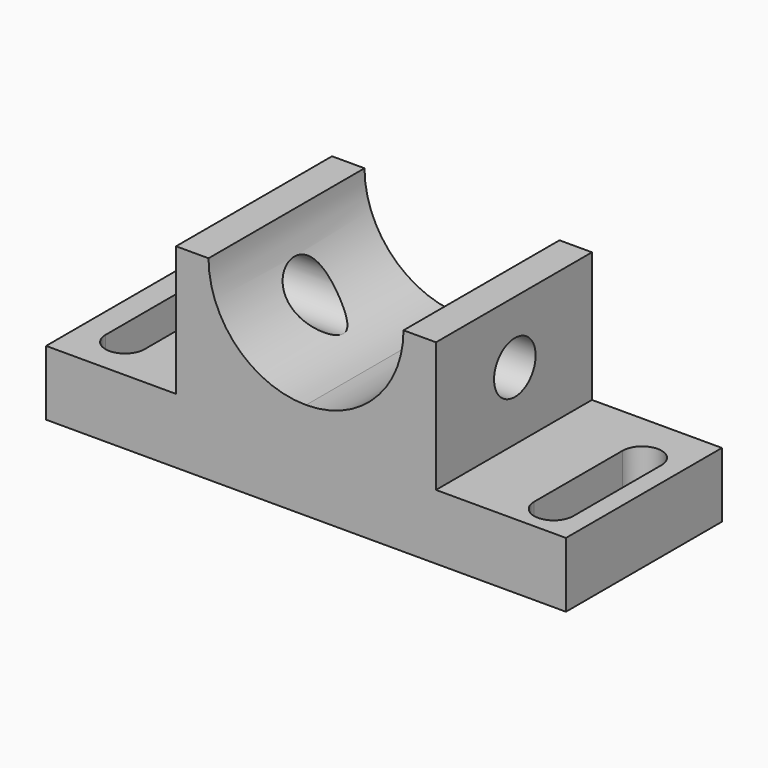
from build123d import *

# Parameters (mm, degrees)
F1_DEPTH = 60
F4_DEPTH = 20.001
F5_R     = 8
F6_DEPTH = 120.001


with BuildPart() as f1:
    # F0 (on Front) → F1 (new body)
    with BuildSketch(Plane.XZ):
        Polygon((-40, -28.375002), (-80, -28.375002), (-80, -48.375002), (80, -48.375002), (80, -28.375002), (40, -28.375002), (0, -28.375002), align=None)
        with BuildLine():
            Line((-40, 11.624998), (-40, -28.375002))
            Line((-40, -28.375002), (0, -28.375002))
            Line((0, -28.375002), (0, -18.375002))
            ThreePointArc((0, -18.375002), (-21.213203, -9.588205), (-30, 11.624998))
            Line((-30, 11.624998), (-40, 11.624998))
        make_face()
        with BuildLine():
            Line((0, -18.375002), (0, -28.375002))
            Line((0, -28.375002), (40, -28.375002))
            Line((40, -28.375002), (40, 11.624998))
            Line((40, 11.624998), (30, 11.624998))
            ThreePointArc((30, 11.624998), (21.213203, -9.588205), (0, -18.375002))
        make_face()
    extrude(amount=F1_DEPTH)

    # F3 (on face) → F4 (cut, through all)
    with BuildSketch(Plane.XY.offset(-28.375002)):
        with BuildLine():
            ThreePointArc((-60.433533, -12.584707), (-66.433533, -6.584707), (-72.433533, -12.584707))
            Line((-72.433533, -12.584707), (-72.433533, -46.584707))
            ThreePointArc((-72.433533, -46.584707), (-66.433533, -52.584707), (-60.433533, -46.584707))
            Line((-60.433533, -46.584707), (-60.433533, -12.584707))
        make_face()
        with BuildLine():
            ThreePointArc((62.259354, -50.032701), (68.259354, -56.032701), (74.259354, -50.032701))
            Line((74.259354, -50.032701), (74.259354, -16.032701))
            ThreePointArc((74.259354, -16.032701), (68.259354, -10.032701), (62.259354, -16.032701))
            Line((62.259354, -16.032701), (62.259354, -50.032701))
        make_face()
    extrude(amount=-F4_DEPTH, mode=Mode.SUBTRACT)

    # F5 (on face) → F6 (cut, through all)
    with BuildSketch(Plane.YZ.offset(40)):
        with Locations((-29.667338, -7.530242)):
            Circle(F5_R)
    extrude(amount=-F6_DEPTH, mode=Mode.SUBTRACT)


solid = f1.part
